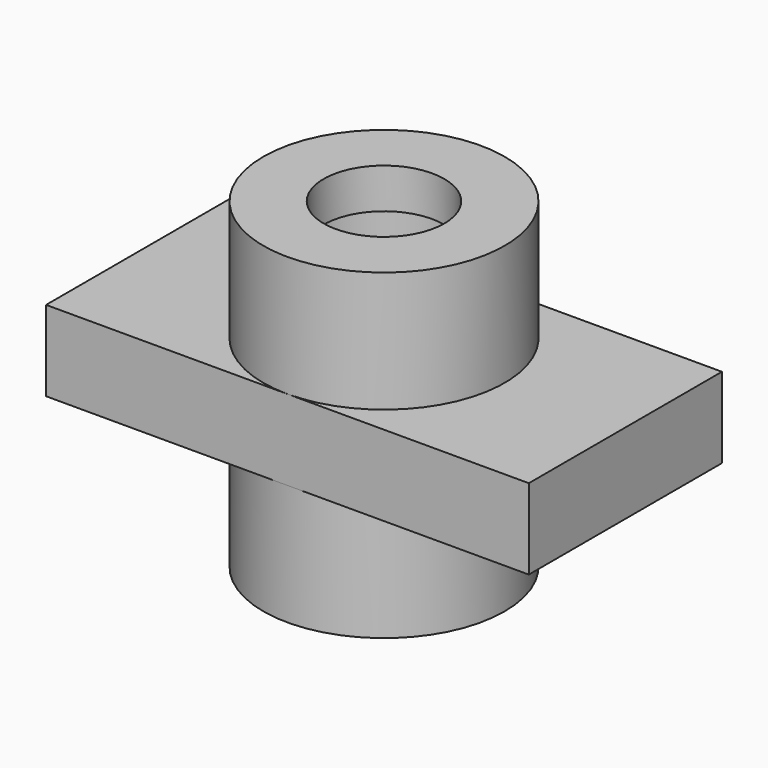
from build123d import *

# Parameters (mm, degrees)
F1_DEPTH = 12.7
F4_R     = 9.525
F5_DEPTH = 31.751
F6_R     = 19.05
F7_DEPTH = 19.05
F8_R     = 9.525
F9_DEPTH = 50.801


with BuildPart() as f1:
    # F0 (on Top) → F1 (new body)
    with BuildSketch(Plane.XY):
        Polygon((38.1, 19.05), (0, 19.05), (-38.1, 19.05), (-38.1, -19.05), (38.1, -19.05), align=None)
    extrude(amount=-F1_DEPTH)

    # F2 (on Front) → F3 (revolve)
    with BuildSketch(Plane.XZ):
        Polygon((-19.05, 0), (0, 0), (0, 6.35), (-12.7, 6.35), (-12.7, 12.7), (0, 12.7), (0, 19.05), (-19.05, 19.05), align=None)
    revolve(axis=Axis((0, 0, 19.095721), (0, 0, 1)))

    # F4 (on face) → F5 (cut, through all)
    with BuildSketch(Plane.XY.offset(19.05)):
        Circle(F4_R)
    extrude(amount=-F5_DEPTH, mode=Mode.SUBTRACT)

    # F6 (on face) → F7 (join)
    with BuildSketch(Plane(origin=(0, 0, -12.7), x_dir=(1, 0, 0), z_dir=(0, 0, -1))):
        Circle(F6_R)
    extrude(amount=F7_DEPTH)

    # F8 (on face) → F9 (cut, through all)
    with BuildSketch(Plane(origin=(0, 0, -31.75), x_dir=(1, 0, 0), z_dir=(0, 0, -1))):
        Circle(F8_R)
    extrude(amount=-F9_DEPTH, mode=Mode.SUBTRACT)


solid = f1.part
